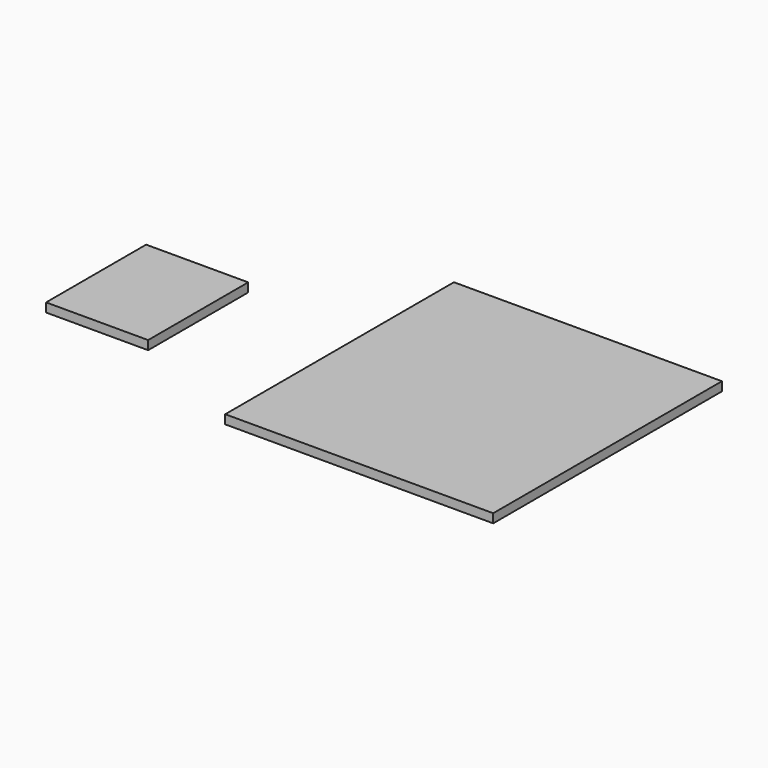
from build123d import *

# Parameters (mm, degrees)
F0_W     = 190.5
F0_H     = 203.2
F0_W_2   = 72.53986
F0_H_2   = 88.9
F1_DEPTH = 6.35


with BuildPart() as f1:
    # F0 (on Top) → F1 (new body)
    with BuildSketch(Plane.XY):
        Rectangle(F0_W, F0_H)
        with Locations((-220.601055, -14.279511)):
            Rectangle(F0_W_2, F0_H_2)
    extrude(amount=F1_DEPTH)


solid = f1.part
